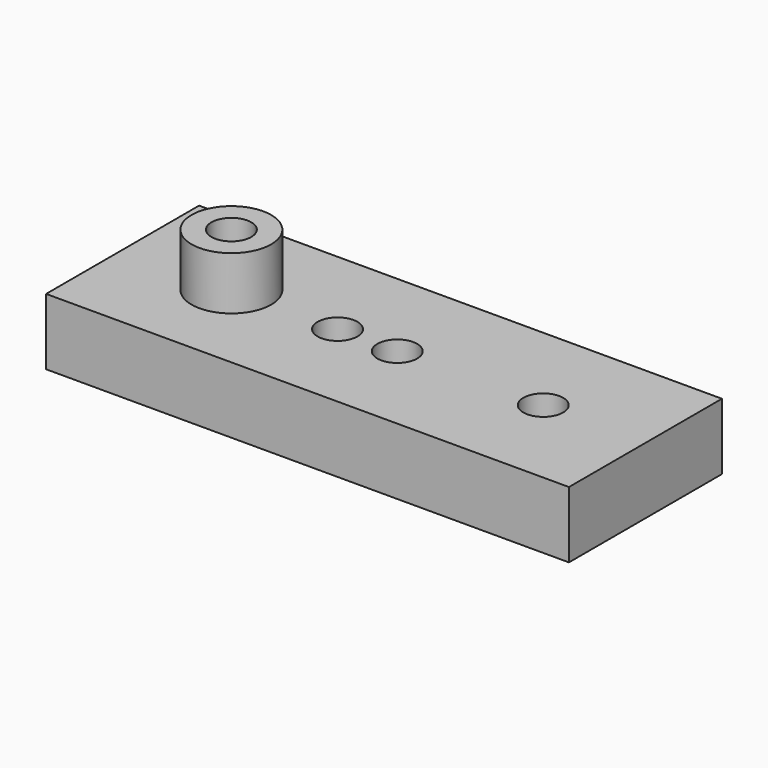
from build123d import *

# Parameters (mm, degrees)
F0_W     = 39.398018
F0_H     = 14.409601
F0_R     = 1.5
F1_DEPTH = 5
F2_R     = 3
F2_R_2   = 1.5
F3_DEPTH = 4


with BuildPart() as f1:
    # F0 (on Top) → F1 (new body)
    with BuildSketch(Plane.XY):
        with Locations((19.699009, -7.2048)):
            Rectangle(F0_W, F0_H)
        with Locations((8.198964, -7.2048)):
            Circle(F0_R, mode=Mode.SUBTRACT)
        with Locations((16.198964, -7.2048)):
            Circle(F0_R, mode=Mode.SUBTRACT)
        with Locations((20.698964, -7.2048)):
            Circle(F0_R, mode=Mode.SUBTRACT)
        with Locations((31.698964, -7.2048)):
            Circle(F0_R, mode=Mode.SUBTRACT)
    extrude(amount=F1_DEPTH)

    # F2 (on face) → F3 (join)
    with BuildSketch(Plane.XY.offset(5)):
        with Locations((8.198964, -7.2048)):
            Circle(F2_R)
        with Locations((8.198964, -7.2048)):
            Circle(F2_R_2, mode=Mode.SUBTRACT)
    extrude(amount=F3_DEPTH)


solid = f1.part
